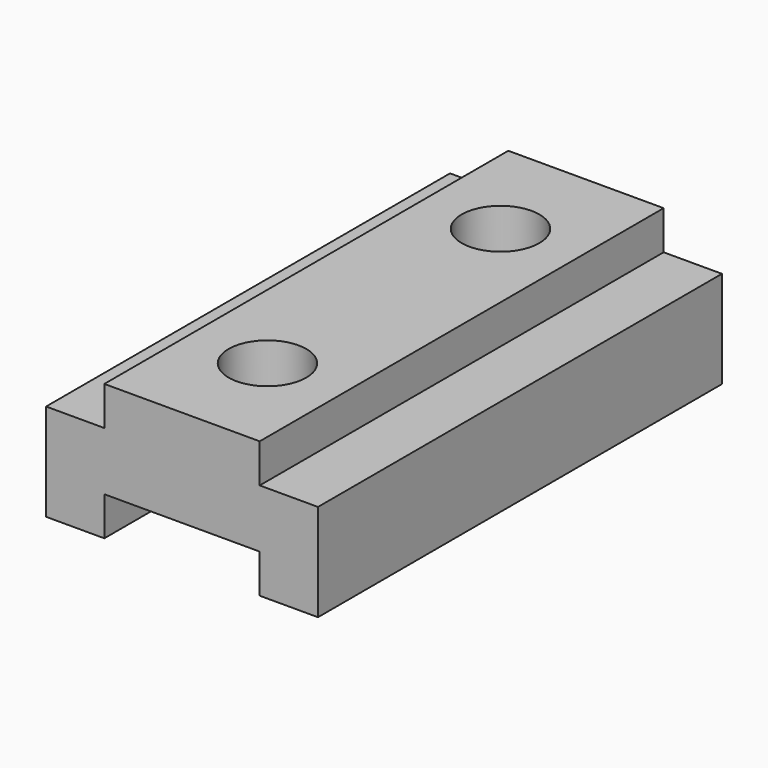
from build123d import *

# Parameters (mm, degrees)
F1_DEPTH = 165.1
F2_R     = 12.7
F3_DEPTH = 31.75


with BuildPart() as f1:
    # F0 (on Front) → F1 (new body)
    with BuildSketch(Plane.XZ):
        Polygon((0, 31.75), (0, 0), (19.05, 0), (19.05, 12.7), (69.85, 12.7), (69.85, 0), (88.9, 0), (88.9, 31.75), (69.85, 31.75), (69.85, 44.45), (19.05, 44.45), (19.05, 31.75), align=None)
    extrude(amount=F1_DEPTH)

    # F2 (on face) → F3 (cut, through all)
    with BuildSketch(Plane.XY.offset(44.45)):
        with Locations((44.45, -34.925)):
            Circle(F2_R)
        with Locations((44.45, -130.175)):
            Circle(F2_R)
    extrude(amount=-F3_DEPTH, mode=Mode.SUBTRACT)


solid = f1.part
